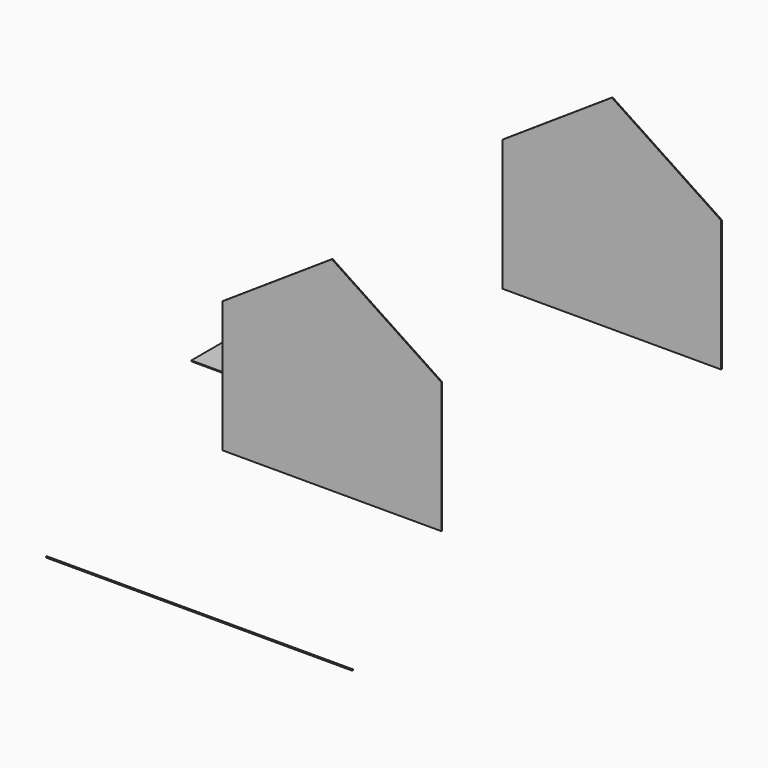
from build123d import *

# Parameters (mm, degrees)
F0_W     = 63.5
F0_H     = 38.1
F3_DEPTH = 0.254
F2_W     = 63.5
F2_H     = 38.1
F4_DEPTH = 0.254
F5_W     = 88.9
F5_H     = 0.254
F6_DEPTH = 0.254
F7_DEPTH = 0.254
F8_W     = 50.8
F8_H     = 25.4
F9_DEPTH = 0.254


with BuildPart() as f3:
    # F0 (on Front) → F3 (new body)
    with BuildSketch(Plane.XZ):
        Polygon((3.735292923, 59.1605674188), (-28.014707077, 38.1), (35.485292923, 38.1), align=None)
        with Locations((3.735292923, 19.05)):
            Rectangle(F0_W, F0_H)
    extrude(amount=F3_DEPTH)


with BuildPart() as f4:
    # F2 (on offset) → F4 (new body)
    with BuildSketch(Plane.XZ.offset(-101.6)):
        with Locations((3.7352986, 19.05)):
            Rectangle(F2_W, F2_H)
        Polygon((-28.0147014, 38.1), (35.4852986, 38.1), (3.7352986, 59.1605674188), align=None)
    extrude(amount=F4_DEPTH)


with BuildPart() as f6:
    # F5 (on Front) → F6 (new body)
    with BuildSketch(Plane.XZ):
        with Locations((-34.7909054301, -43.9452975988)):
            Rectangle(F5_W, F5_H)
    extrude(amount=F6_DEPTH)

    # F5 (on Front) → F7 (join)
    with BuildSketch(Plane.XZ):
        with Locations((-34.7909054301, -43.9452975988)):
            Rectangle(F5_W, F5_H)
    extrude(amount=F7_DEPTH)


with BuildPart() as f9:
    # F8 (on Top) → F9 (new body)
    with BuildSketch(Plane.XY):
        with Locations((-35.41862064, 42.1265598059)):
            Rectangle(F8_W, F8_H)
    extrude(amount=F9_DEPTH)


solid = Compound([f3.part, f4.part, f6.part, f9.part])
